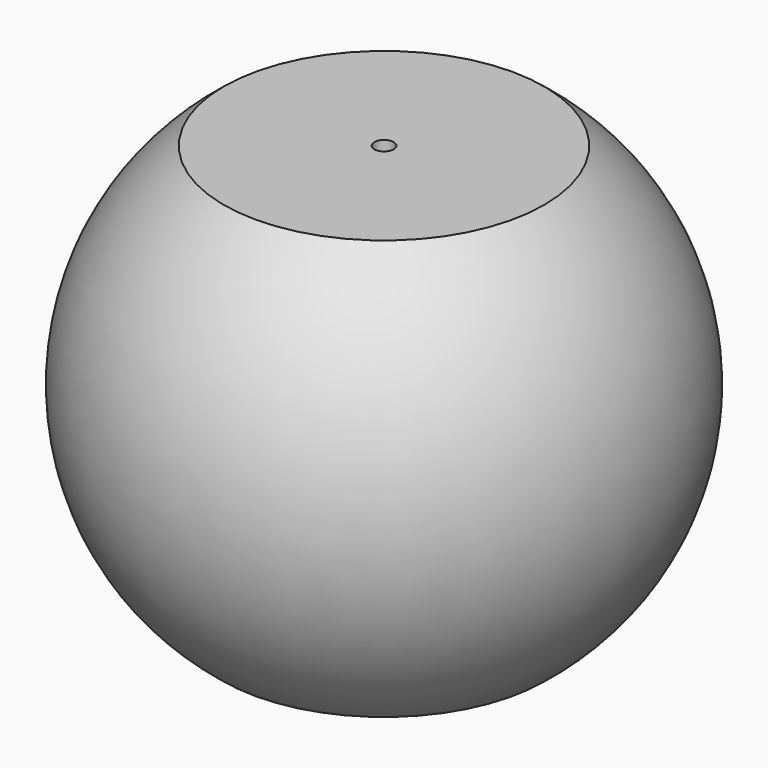
from build123d import *

# Parameters (mm, degrees)
F2_R     = 2.06
F3_DEPTH = 89.001


with BuildPart() as f1:
    # F0 (on Front) → F1 (revolve)
    with BuildSketch(Plane.XZ):
        with BuildLine():
            Line((-32.5, 42), (0, 42))
            Line((0, 42), (0, 44.5))
            Line((0, 44.5), (-34, 44.5))
            ThreePointArc((-34, 44.5), (-56.002232, 0), (-34, -44.5))
            Line((-34, -44.5), (0, -44.5))
            Line((0, -44.5), (0, -42))
            Line((0, -42), (-32.5, -42))
            ThreePointArc((-32.5, -42), (-52.83479, 0), (-32.5, 42))
        make_face()
    revolve(axis=Axis((0, 0, 43.25), (0, 0, 1)))

    # F2 (on face) → F3 (cut, through all)
    with BuildSketch(Plane.XY.offset(44.5)):
        Circle(F2_R)
    extrude(amount=-F3_DEPTH, mode=Mode.SUBTRACT)


solid = f1.part
